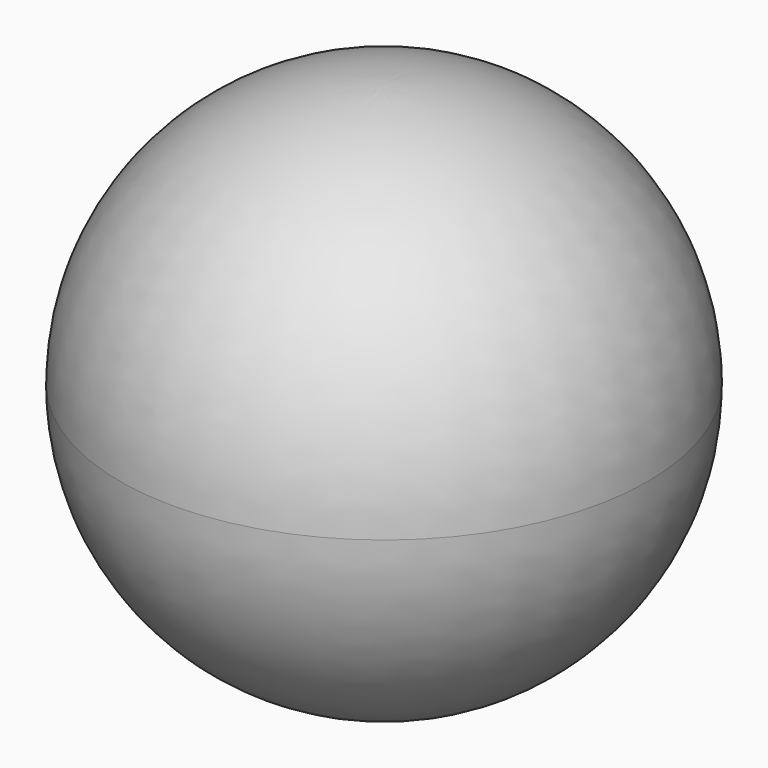
from build123d import *


with BuildPart() as f1:
    # F0 (on Right) → F1 (revolve)
    with BuildSketch(Plane.YZ):
        with BuildLine():
            ThreePointArc((0, -53.756972), (38.01192, -38.01192), (53.756972, 0))
            ThreePointArc((53.756972, 0), (38.01192, 38.01192), (0, 53.756972))
            Line((0, 53.756972), (0, -53.756972))
        make_face()
    revolve(axis=Axis((0, 0, 0), (0, 0, -1)))


solid = f1.part
